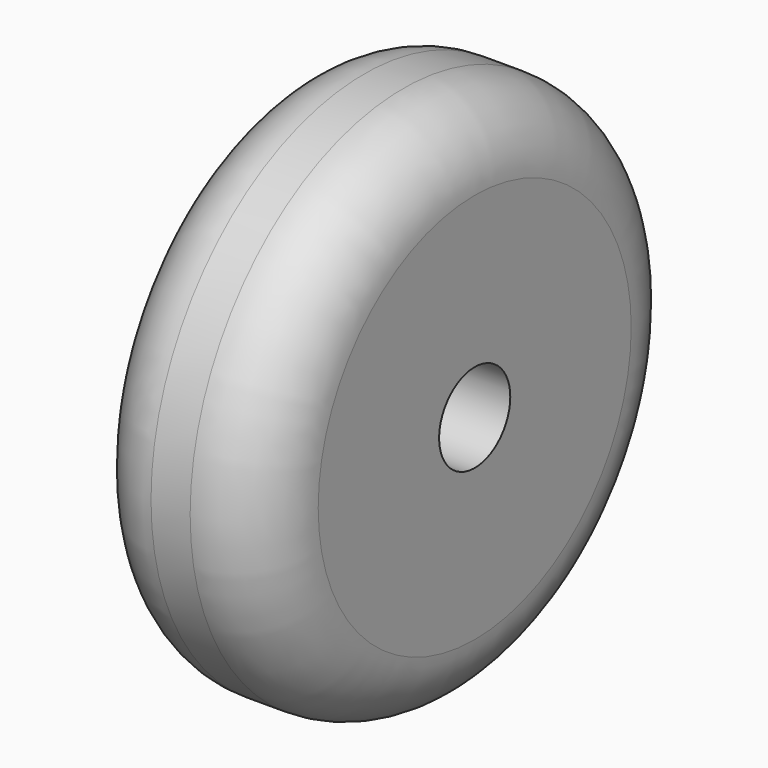
from build123d import *

# Parameters (mm, degrees)
F0_R     = 38.1
F0_R_2   = 6.35
F1_DEPTH = 25.908
F2_R     = 10.16


with BuildPart() as f1:
    # F0 (on Right) → F1 (new body)
    with BuildSketch(Plane.YZ):
        with Locations((0.188481, 0.471201)):
            Circle(F0_R)
        with Locations((0.188481, 0.471201)):
            Circle(F0_R_2, mode=Mode.SUBTRACT)
    extrude(amount=F1_DEPTH)

    # F2
    f2_edges = [f1.edges().sort_by_distance(p)[0] for p in [
        (12.954, 38.288481, 0.471201),
        (0, -37.911519, 0.471201),
        (25.908, -37.911519, 0.471201),
    ]]
    fillet(f2_edges, radius=F2_R)


solid = f1.part
